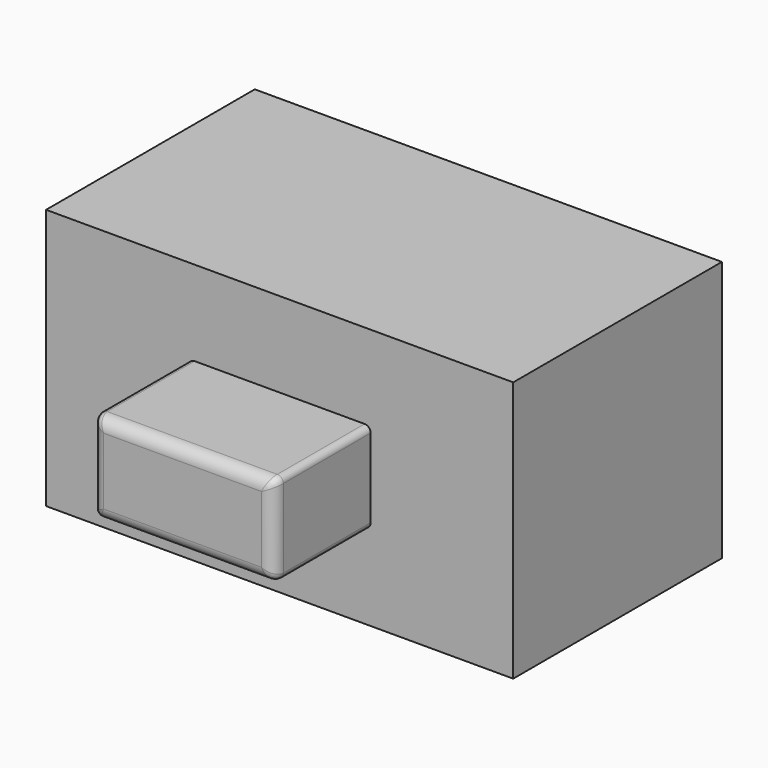
from build123d import *

# Parameters (mm, degrees)
F0_W     = 7.7
F0_H     = 4.3
F0_W_2   = 3
F0_H_2   = 1.5
F1_DEPTH = 4.3
F2_DEPTH = 2
F3_R     = 0.2
F4_R     = 0.1


with BuildPart() as f1:
    # F0 (on Front) → F1 (new body)
    with BuildSketch(Plane.XZ):
        Rectangle(F0_W, F0_H)
        Rectangle(F0_W_2, F0_H_2, mode=Mode.SUBTRACT)
        Rectangle(F0_W_2, F0_H_2)
    extrude(amount=-F1_DEPTH)

    # F0 (on Front) → F2 (join)
    with BuildSketch(Plane.XZ):
        Rectangle(F0_W_2, F0_H_2)
    extrude(amount=F2_DEPTH)

    # F3
    f3_edges = [f1.edges().sort_by_distance(p)[0] for p in [
        (0, -2, 0.75),
        (1.5, -2, 0),
        (0, -2, -0.75),
        (-1.5, -2, 0),
    ]]
    fillet(f3_edges, radius=F3_R)

    # F4
    f4_edges = [f1.edges().sort_by_distance(p)[0] for p in [
        (1.42921, -1.952659, 0.67921),
        (1.42921, -1.952659, -0.67921),
        (-1.42921, -1.952659, -0.67921),
        (-1.42921, -1.952659, 0.67921),
    ]]
    fillet(f4_edges, radius=F4_R)


solid = f1.part
